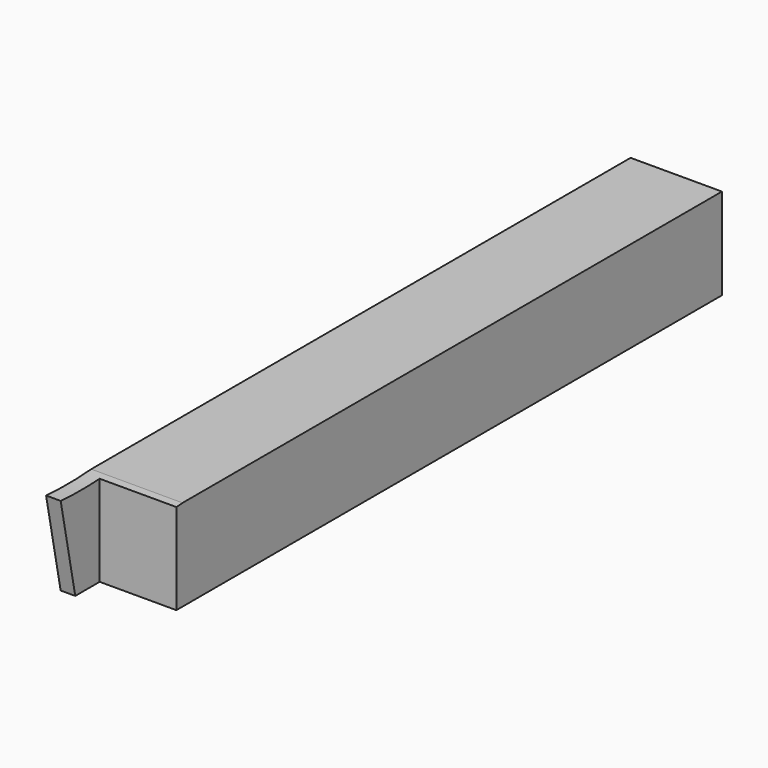
from build123d import *

# Parameters (mm, degrees)
F0_W     = 9.525
F0_H     = 76.2
F1_DEPTH = 9.525
F2_W     = 8.001
F2_H     = 5.08
F3_DEPTH = 25.4
F4_R     = 39.221374
F5_DEPTH = 25.4
F7_DEPTH = 25.4


with BuildPart() as f1:
    # F0 (on Top) → F1 (new body)
    with BuildSketch(Plane.XY):
        with Locations((4.7625, 38.1)):
            Rectangle(F0_W, F0_H)
    extrude(amount=F1_DEPTH)

    # F2 (on face) → F3 (cut)
    with BuildSketch(Plane.XY.offset(9.525)):
        Polygon((1.524, 0), (1.524, -3.864633), (13.939685, -4.220638), (13.939685, 5.08), (9.525, 5.08), (9.525, 0), align=None)
        with Locations((5.5245, 2.54)):
            Rectangle(F2_W, F2_H)
    extrude(amount=-F3_DEPTH, mode=Mode.SUBTRACT)

    # F4 (on face) → F5 (cut)
    with BuildSketch(Plane.YZ.offset(9.525)):
        with Locations((2.740548, 48.620269)):
            Circle(F4_R)
    extrude(amount=-F5_DEPTH, mode=Mode.SUBTRACT)

    # F6 (on face) → F7 (cut)
    with BuildSketch(Plane.YZ.offset(9.525)):
        Polygon((2.305606, -2.034316), (0, 9.494759), (0, 0), align=None)
    extrude(amount=-F7_DEPTH, mode=Mode.SUBTRACT)


solid = f1.part
